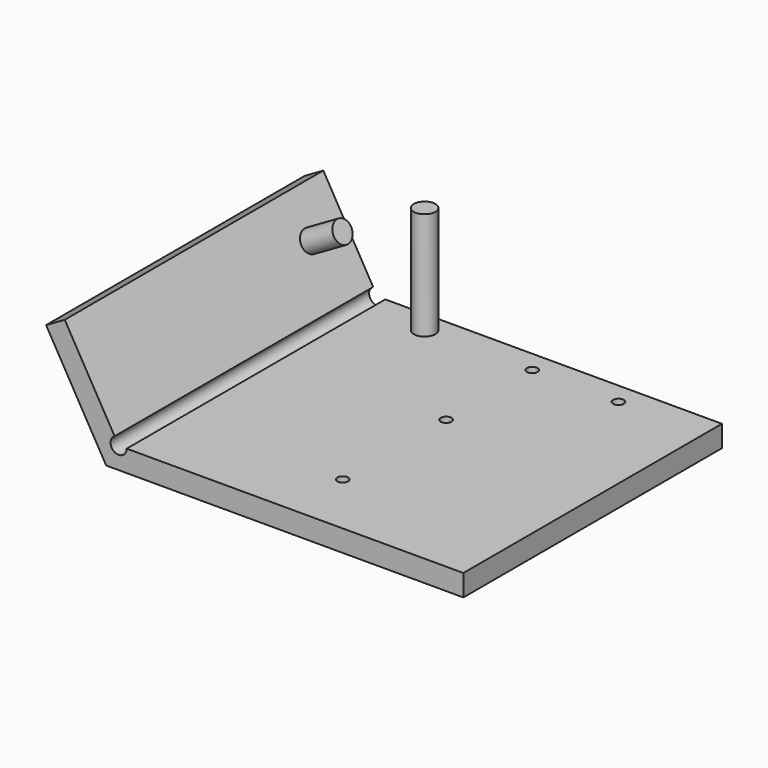
from build123d import *

# Parameters (mm, degrees)
F1_DEPTH = 190.5
F2_R     = 6.35
F3_DEPTH = 21.9964
F6_D     = 6.35
F7_R     = 6.35
F8_DEPTH = 63.5


with BuildPart() as f1:
    # F0 (on Front) → F1 (new body)
    with BuildSketch(Plane.XZ):
        with BuildLine():
            Line((210.5406, 0), (12.1031, 0))
            ThreePointArc((12.1031, 0), (4.95935, -4.124446), (4.95935, 4.124446))
            Line((4.95935, 4.124446), (-24.4094, 54.992613))
            Line((-24.4094, 54.992613), (-35.4203, 48.649759))
            Line((-35.4203, 48.649759), (0, -12.7))
            Line((0, -12.7), (210.5406, -12.7))
            Line((210.5406, -12.7), (210.5406, 0))
        make_face()
    extrude(amount=F1_DEPTH)

    # F2 (on face) → F3 (join)
    with BuildSketch(Plane(origin=(5.50545, 0, 3.178573), x_dir=(0, 1, 0), z_dir=(0.866025, 0, 0.5))):
        with Locations((-25.554094, 34.4297)):
            Circle(F2_R)
    extrude(amount=F3_DEPTH)

    # F6 (through all)
    with Locations(Plane.XY):
        with Locations((108.9279, -12.7), (159.7279, -12.7), (108.9279, -76.2), (108.9279, -152.4)):
            Hole(F6_D / 2)

    # F7 (on face) → F8 (join)
    with BuildSketch(Plane.XY):
        with Locations((45.4533, -12.7)):
            Circle(F7_R)
    extrude(amount=F8_DEPTH)


solid = f1.part
